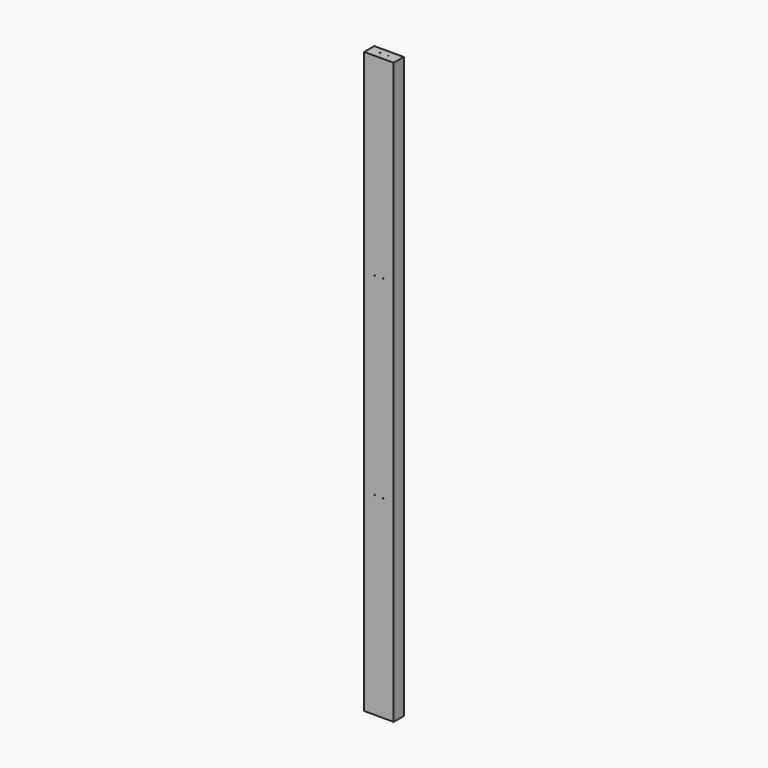
from build123d import *

# Parameters (mm, degrees)
SKETCH003_AS_DRAWN_R                      = 1.27
EXTRUDE003_DEPTH                          = 38.1
EXTRUDE003_ONTO_SKETCH003_ROLL_ANGLE      = 90
EXTRUDE003_ONTO_SKETCH003_PLACEMENT_ANGLE = 180
SKETCH002_R                               = 1.27
EXTRUDE002_DEPTH                          = 25.4
SKETCH001_R                               = 1.27
EXTRUDE001_DEPTH                          = 25.4
SKETCH_W                                  = 88.9
SKETCH_H                                  = 38.1
EXTRUDE_DEPTH                             = 1752.6


with BuildPart() as extrude003:
    # Sketch003 as drawn → Extrude003 (new)
    with BuildSketch(Plane.XY):
        with Locations((-57.15, 584.2)):
            Circle(SKETCH003_AS_DRAWN_R)
        with Locations((-31.75, 584.2)):
            Circle(SKETCH003_AS_DRAWN_R)
        with Locations((-57.15, 1168.4)):
            Circle(SKETCH003_AS_DRAWN_R)
        with Locations((-31.75, 1168.4)):
            Circle(SKETCH003_AS_DRAWN_R)
    extrude(amount=-EXTRUDE003_DEPTH)


with BuildPart() as extrude003_1:
    # Extrude003 onto Sketch003 roll: moved
    add(extrude003.part.rotate(Axis((0, 0, 0), (1, 0, 0)), EXTRUDE003_ONTO_SKETCH003_ROLL_ANGLE))


with BuildPart() as extrude003_2:
    # Extrude003 onto Sketch003 placement: moved
    add(extrude003_1.part.moved(Location((0, 38.1, 0))).rotate(Axis((0, 38.1, 0), (0, 0, 1)), EXTRUDE003_ONTO_SKETCH003_PLACEMENT_ANGLE))


with BuildPart() as extrude002:
    # Sketch002 → Extrude002 (new body)
    with BuildSketch(Plane(origin=(0, 0, 0), x_dir=(1, 0, 0), z_dir=(0, 0, -1))):
        with Locations((31.75, -19.05)):
            Circle(SKETCH002_R)
        with Locations((57.15, -19.05)):
            Circle(SKETCH002_R)
    extrude(amount=-EXTRUDE002_DEPTH)


with BuildPart() as extrude001:
    # Sketch001 → Extrude001 (new body)
    with BuildSketch(Plane.XY.offset(1752.6)):
        with Locations((31.75, 19.05)):
            Circle(SKETCH001_R)
        with Locations((57.15, 19.05)):
            Circle(SKETCH001_R)
    extrude(amount=-EXTRUDE001_DEPTH)


with BuildPart() as cut002:
    # Sketch → Extrude (new body)
    with BuildSketch(Plane.XY):
        with Locations((44.45, 19.05)):
            Rectangle(SKETCH_W, SKETCH_H)
    extrude(amount=EXTRUDE_DEPTH)

    # Cut: cut Extrude001
    add(extrude001.part, mode=Mode.SUBTRACT)

    # Cut001: cut Extrude002
    add(extrude002.part, mode=Mode.SUBTRACT)

    # Cut002: cut Extrude003
    add(extrude003_2.part, mode=Mode.SUBTRACT)


solid = cut002.part
